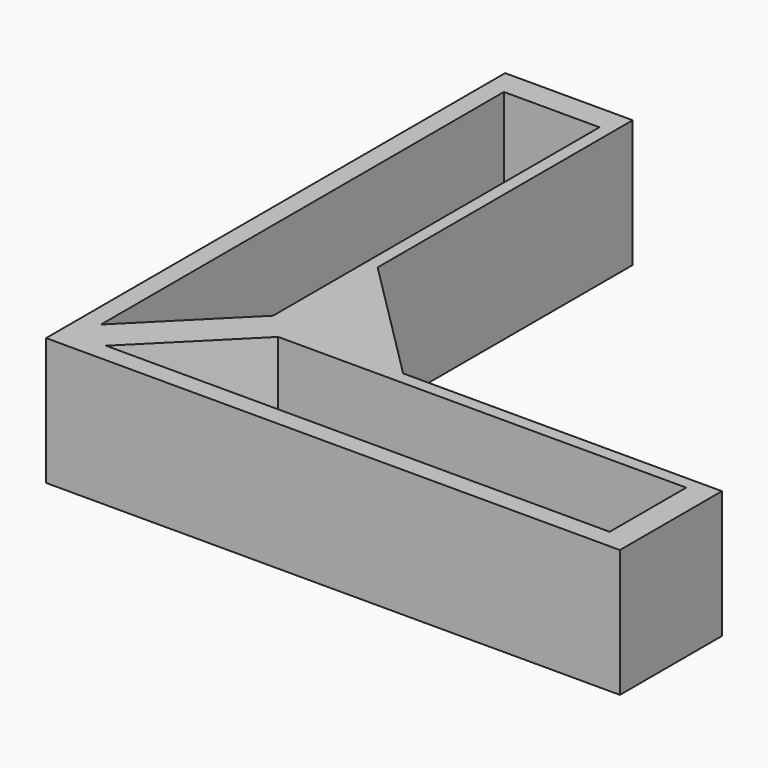
from build123d import *

# Parameters (mm, degrees)
PAD_DEPTH    = 20
POCKET_DEPTH = 18


with BuildPart() as part:
    # Sketch → Pad (new body)
    with BuildSketch(Plane.XY):
        Polygon((0, 0), (0, 90), (20, 90), (20, 40.00002), (40, 20), (90, 20), (90, 0), align=None)
    extrude(amount=PAD_DEPTH)

    # Sketch001 → Pocket (cut)
    with BuildSketch(Plane.XY.offset(20)):
        Polygon((3, 7), (3, 86), (18, 86), (18, 22.000015), align=None)
        Polygon((21.999985, 18), (86, 18), (86, 3), (7, 3), align=None)
    extrude(amount=-POCKET_DEPTH, mode=Mode.SUBTRACT)


solid = part.part
